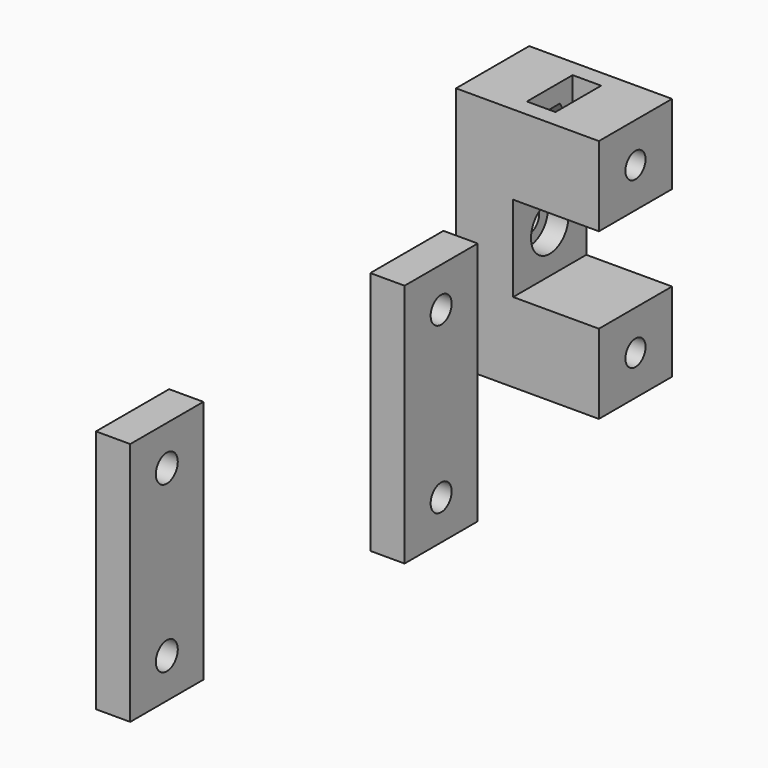
from build123d import *

# Parameters (mm, degrees)
F2_DEPTH  = 4
F4_START  = -3.7
F4_DEPTH  = 1.7
F5_W      = 2.5
F5_H      = 5
F6_DEPTH  = 5.45
F7_R      = 1.1
F8_DEPTH  = 12.501
F9_START  = -15.95
F9_DEPTH  = 5.45
F10_START = -7.1
F10_DEPTH = 1.7
F11_R     = 1.1
F13_DEPTH = 5
F12_R     = 2.05
F14_DEPTH = 1.8
F16_W     = 8
F16_H     = 21.4
F16_R     = 1.15
F17_DEPTH = 3
F20_R     = 1.2
F21_DEPTH = 15.501


with BuildPart() as f2:
    # F1 (on Front) → F2 (new body, symmetric)
    with BuildSketch(Plane.XZ):
        Polygon((-7.5, 3.75), (0, 3.75), (0, 10.7), (-12.5, 10.7), (-12.5, -10.7), (0, -10.7), (0, -3.75), (-7.5, -3.75), align=None)
    extrude(amount=F2_DEPTH, both=True)

    # F3 (on face) → F4 (cut)
    with BuildSketch(Plane.YZ.offset(F4_START)):
        Polygon((-1.1056257655, 5.25), (0, 5.25), (1.1056257655, 5.25), (2.211251531, 7.165), (1.1056257655, 9.08), (0, 9.08), (-1.1056257655, 9.08), (-2.211251531, 7.165), align=None)
        Polygon((-2.211251531, -7.165), (-1.1056257655, -9.08), (0, -9.08), (1.1056257655, -9.08), (2.211251531, -7.165), (1.1056257655, -5.25), (0, -5.25), (-1.1056257655, -5.25), align=None)
    extrude(amount=-F4_DEPTH, mode=Mode.SUBTRACT)

    # F5 (on face) → F6 (cut, through all)
    with BuildSketch(Plane.XY.offset(10.7)):
        with Locations((-6.25, 0)):
            Rectangle(F5_W, F5_H)
    extrude(amount=-F6_DEPTH, mode=Mode.SUBTRACT)

    # F7 (on face) → F8 (cut, through all)
    with BuildSketch(Plane.YZ):
        with Locations((0, 7.225)):
            Circle(F7_R)
        with Locations((0, -7.225)):
            Circle(F7_R)
    extrude(amount=-F8_DEPTH, mode=Mode.SUBTRACT)

    # F5 (on face) → F9 (cut)
    with BuildSketch(Plane.XY.offset(10.7).offset(F9_START)):
        with Locations((-6.25, 0)):
            Rectangle(F5_W, F5_H)
    extrude(amount=-F9_DEPTH, mode=Mode.SUBTRACT)

    # F3 (on face) → F10 (cut)
    with BuildSketch(Plane.YZ.offset(F10_START)):
        Polygon((-1.1056257655, 5.25), (0, 5.25), (1.1056257655, 5.25), (2.211251531, 7.165), (1.1056257655, 9.08), (0, 9.08), (-1.1056257655, 9.08), (-2.211251531, 7.165), align=None)
        Polygon((-2.211251531, -7.165), (-1.1056257655, -9.08), (0, -9.08), (1.1056257655, -9.08), (2.211251531, -7.165), (1.1056257655, -5.25), (0, -5.25), (-1.1056257655, -5.25), align=None)
    extrude(amount=-F10_DEPTH, mode=Mode.SUBTRACT)

    # F11 (on face) → F13 (cut, through all)
    with BuildSketch(Plane.YZ.offset(-7.5)):
        Circle(F11_R)
    extrude(amount=-F13_DEPTH, mode=Mode.SUBTRACT)

    # F12 (on face) → F14 (cut)
    with BuildSketch(Plane.YZ.offset(-7.5)):
        Circle(F12_R)
    extrude(amount=-F14_DEPTH, mode=Mode.SUBTRACT)


with BuildPart() as f17:
    # F16 (on Right) → F17 (new body)
    with BuildSketch(Plane.YZ):
        with Locations((-25, 0)):
            Rectangle(F16_W, F16_H)
        with Locations((-25, -7.225)):
            Circle(F16_R, mode=Mode.SUBTRACT)
        with Locations((-25, 7.225)):
            Circle(F16_R, mode=Mode.SUBTRACT)
    extrude(amount=F17_DEPTH)


with BuildPart() as f19_1:
    # F19: copy of F17
    add(f17.part.moved(Location((0, -30, 0))))

    # F20 (on face) → F21 (cut, through all)
    with BuildSketch(Plane.YZ.offset(3)):
        with Locations((-55, 7.225)):
            Circle(F20_R)
        with Locations((-55, -7.225)):
            Circle(F20_R)
    extrude(amount=-F21_DEPTH, mode=Mode.SUBTRACT)


solid = Compound([f2.part, f17.part, f19_1.part])
